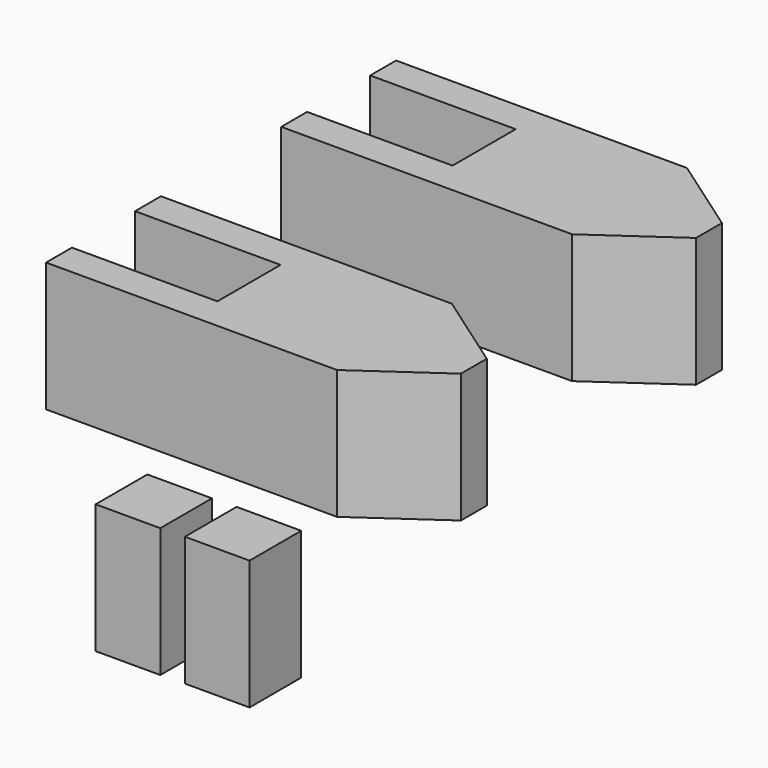
from build123d import *

# Parameters (mm, degrees)
F0_W     = 25.4
F0_H     = 50.8
F1_DEPTH = 25.4
F3_DEPTH = 50.8


with BuildPart() as f1:
    # F0 (on Front) → F1 (new body)
    with BuildSketch(Plane.XZ):
        with Locations((-35.671202, -50.324684)):
            Rectangle(F0_W, F0_H)
        with Locations((-0.608555, -50.141936)):
            Rectangle(F0_W, F0_H)
    extrude(amount=F1_DEPTH)


with BuildPart() as f3:
    # F2 (on Top) → F3 (new body)
    with BuildSketch(Plane.XY):
        Polygon((44.576997, 33.354819), (-69.723003, 33.354819), (-69.723003, 20.654819), (-12.573003, 20.654819), (-12.573003, -10.351706), (-69.723003, -10.351706), (-69.723003, -23.051706), (44.576997, -23.051706), (75.78669, -1.198443), (75.78669, 11.501557), align=None)
        Polygon((-69.723003, 105.134302), (-69.723003, 92.434302), (44.576997, 92.434302), (75.78669, 114.287564), (75.78669, 126.987564), (44.576997, 148.840826), (-69.723003, 148.840826), (-69.723003, 136.140826), (-12.573003, 136.140826), (-12.573003, 105.134302), align=None)
    extrude(amount=F3_DEPTH)


solid = Compound([f1.part, f3.part])
